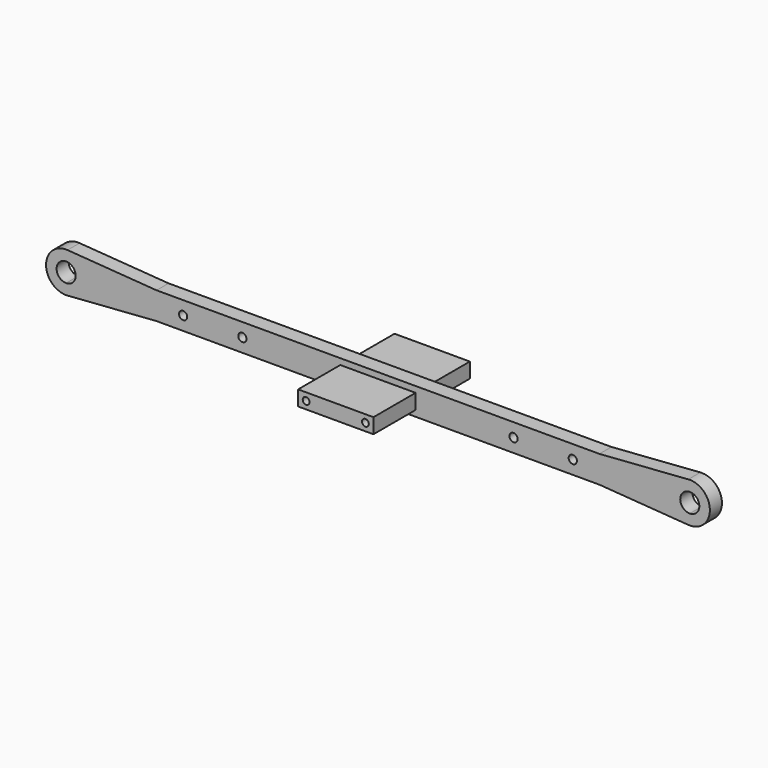
from build123d import *

# Parameters (mm, degrees)
F0_R     = 4.1
F1_DEPTH = 7.5
F2_W     = 75
F2_H     = 15
F2_R     = 3.4
F3_DEPTH = 60
F4_R     = 3.4
F6_DEPTH = 35
F5_R     = 3.4
F7_DEPTH = 35


with BuildPart() as f1:
    # F0 (on Front) → F1 (new body, symmetric)
    with BuildSketch(Plane.XZ):
        with BuildLine():
            Line((-310.5, 13.5), (-295.743645, 13.5))
            ThreePointArc((-295.743645, 13.5), (-301.77806, 17.997993), (-309.047635, 19.947196))
            ThreePointArc((-309.047635, 19.947196), (-330.5, 0), (-309.047635, -19.947196))
            ThreePointArc((-309.047635, -19.947196), (-301.77806, -17.997993), (-295.743645, -13.5))
            Line((-295.743645, -13.5), (-310.5, -13.5))
            Line((-310.5, -13.5), (-310.5, -9.5))
            ThreePointArc((-310.5, -9.5), (-320, 0), (-310.5, 9.5))
            Line((-310.5, 9.5), (-310.5, 13.5))
        make_face()
        with BuildLine():
            ThreePointArc((-290.5, 0), (-291.856944, 7.241302), (-295.743645, 13.5))
            Line((-295.743645, 13.5), (-310.5, 13.5))
            Line((-310.5, 13.5), (-310.5, 9.5))
            ThreePointArc((-310.5, 9.5), (-303.782486, 6.717514), (-301, 0))
            ThreePointArc((-301, 0), (-303.782486, -6.717514), (-310.5, -9.5))
            Line((-310.5, -9.5), (-310.5, -13.5))
            Line((-310.5, -13.5), (-295.743645, -13.5))
            ThreePointArc((-295.743645, -13.5), (-291.856944, -7.241302), (-290.5, 0))
        make_face()
        with BuildLine():
            Line((-295.743645, 13.5), (-220.5, 13.5))
            Line((-220.5, 13.5), (-309.047635, 19.947196))
            ThreePointArc((-309.047635, 19.947196), (-301.77806, 17.997993), (-295.743645, 13.5))
        make_face()
        with BuildLine():
            ThreePointArc((-295.743645, -13.5), (-301.77806, -17.997993), (-309.047635, -19.947196))
            Line((-309.047635, -19.947196), (-220.5, -13.5))
            Line((-220.5, -13.5), (-295.743645, -13.5))
        make_face()
        with BuildLine():
            Line((295.743645, 13.5), (220.5, 13.5))
            Line((220.5, 13.5), (-220.5, 13.5))
            Line((-220.5, 13.5), (-295.743645, 13.5))
            ThreePointArc((-295.743645, 13.5), (-291.856944, 7.241302), (-290.5, 0))
            ThreePointArc((-290.5, 0), (-291.856944, -7.241302), (-295.743645, -13.5))
            Line((-295.743645, -13.5), (-220.5, -13.5))
            Line((-220.5, -13.5), (220.5, -13.5))
            Line((220.5, -13.5), (295.743645, -13.5))
            ThreePointArc((295.743645, -13.5), (290.5, 0), (295.743645, 13.5))
        make_face()
        with Locations((-194, 0)):
            Circle(F0_R, mode=Mode.SUBTRACT)
        with Locations((-135, 0)):
            Circle(F0_R, mode=Mode.SUBTRACT)
        with Locations((135, 0)):
            Circle(F0_R, mode=Mode.SUBTRACT)
        with Locations((194, 0)):
            Circle(F0_R, mode=Mode.SUBTRACT)
        with BuildLine():
            Line((309.047635, 19.947196), (220.5, 13.5))
            Line((220.5, 13.5), (295.743645, 13.5))
            ThreePointArc((295.743645, 13.5), (301.77806, 17.997993), (309.047635, 19.947196))
        make_face()
        with BuildLine():
            ThreePointArc((309.047635, -19.947196), (301.77806, -17.997993), (295.743645, -13.5))
            Line((295.743645, -13.5), (220.5, -13.5))
            Line((220.5, -13.5), (309.047635, -19.947196))
        make_face()
        with BuildLine():
            ThreePointArc((309.047635, 19.947196), (301.77806, 17.997993), (295.743645, 13.5))
            Line((295.743645, 13.5), (310.5, 13.5))
            Line((310.5, 13.5), (310.5, 9.5))
            ThreePointArc((310.5, 9.5), (317.217514, 6.717514), (320, 0))
            ThreePointArc((320, 0), (317.217514, -6.717514), (310.5, -9.5))
            Line((310.5, -9.5), (310.5, -13.5))
            Line((310.5, -13.5), (295.743645, -13.5))
            ThreePointArc((295.743645, -13.5), (301.77806, -17.997993), (309.047635, -19.947196))
            ThreePointArc((309.047635, -19.947196), (324.11897, -14.646626), (330.5, 0))
            ThreePointArc((330.5, 0), (324.11897, 14.646626), (309.047635, 19.947196))
        make_face()
        with BuildLine():
            Line((310.5, 13.5), (295.743645, 13.5))
            ThreePointArc((295.743645, 13.5), (290.5, 0), (295.743645, -13.5))
            Line((295.743645, -13.5), (310.5, -13.5))
            Line((310.5, -13.5), (310.5, -9.5))
            ThreePointArc((310.5, -9.5), (301, 0), (310.5, 9.5))
            Line((310.5, 9.5), (310.5, 13.5))
        make_face()
    extrude(amount=F1_DEPTH, both=True)


with BuildPart() as f3:
    # F2 (on Front) → F3 (new body, symmetric)
    with BuildSketch(Plane.XZ):
        Rectangle(F2_W, F2_H)
        with Locations((-29.5, 0)):
            Circle(F2_R, mode=Mode.SUBTRACT)
        with Locations((29.5, 0)):
            Circle(F2_R, mode=Mode.SUBTRACT)
        with Locations((-29.5, 0)):
            Circle(F2_R)
        with Locations((29.5, 0)):
            Circle(F2_R)
    extrude(amount=F3_DEPTH, both=True)

    # F4 (on face) → F6 (cut)
    with BuildSketch(Plane.XZ.offset(60)):
        with Locations((-29.5, 0)):
            Circle(F4_R)
        with Locations((29.5, 0)):
            Circle(F4_R)
    extrude(amount=-F6_DEPTH, mode=Mode.SUBTRACT)

    # F5 (on face) → F7 (cut)
    with BuildSketch(Plane(origin=(0, 60, 0), x_dir=(-1, 0, 0), z_dir=(0, 1, 0))):
        with Locations((-29.5, 0)):
            Circle(F5_R)
        with Locations((29.5, 0)):
            Circle(F5_R)
    extrude(amount=-F7_DEPTH, mode=Mode.SUBTRACT)


solid = Compound([f1.part, f3.part])
